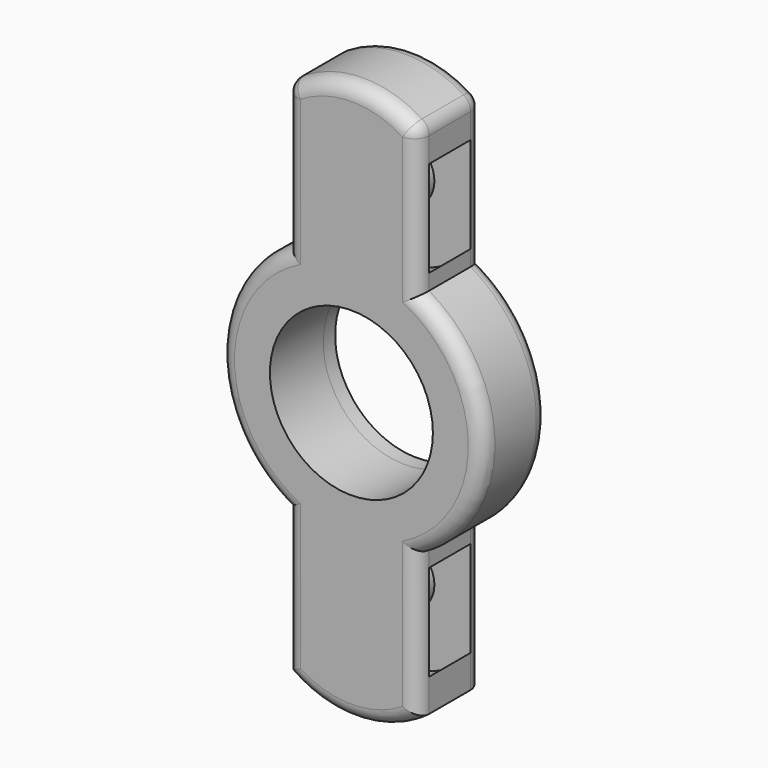
from build123d import *

# Parameters (mm, degrees)
F1_R          = 11
F1_R_2        = 4
F2_DEPTH      = 7
F0_R          = 11
F3_DEPTH      = 9
F3_DEPTH_BACK = 2
F4_R          = 2


with BuildPart() as f2:
    # F1 (on Front) → F2 (new body)
    with BuildSketch(Plane.XZ):
        with Locations((0, 24)):
            Circle(F1_R)
        with Locations((0, 24)):
            Circle(F1_R_2, mode=Mode.SUBTRACT)
        with Locations((0, -24)):
            Circle(F1_R)
        with Locations((0, -24)):
            Circle(F1_R_2, mode=Mode.SUBTRACT)
    extrude(amount=F2_DEPTH)


with BuildPart() as f3:
    # F0 (on Front) → F3 (new body, two sides)
    with BuildSketch(Plane.XZ) as f3_sk:
        with BuildLine():
            Line((-8.89, 34.897932), (-8.89, 15.397932))
            ThreePointArc((-8.89, 15.397932), (-17.78, 0), (-8.89, -15.397932))
            Line((-8.89, -15.397932), (-8.89, -34.897932))
            ThreePointArc((-8.89, -34.897932), (0, -37.816214), (8.89, -34.897932))
            Line((8.89, -34.897932), (8.89, -15.397932))
            ThreePointArc((8.89, -15.397932), (17.78, 0), (8.89, 15.397932))
            Line((8.89, 15.397932), (8.89, 34.897932))
            ThreePointArc((8.89, 34.897932), (0, 37.816214), (-8.89, 34.897932))
        make_face()
        Circle(F0_R, mode=Mode.SUBTRACT)
    extrude(amount=F3_DEPTH)
    extrude(f3_sk.sketch, amount=-F3_DEPTH_BACK)

    # F4
    f4_edges = [f3.edges().sort_by_distance(p)[0] for p in [
        (-8.89, -9, 25.147932),
        (-17.78, -9, 0),
        (8.89, -9, 25.147932),
        (17.78, -9, 0),
        (0, -9, 37.816214),
        (0, -9, -37.816214),
        (8.89, -9, -25.147932),
        (-8.89, -9, -25.147932),
        (-8.89, 2, 25.147932),
        (0, 2, 37.816214),
        (-17.78, 2, 0),
        (-8.89, 2, -25.147932),
        (0, 2, -37.816214),
        (8.89, 2, 25.147932),
        (17.78, 2, 0),
        (8.89, 2, -25.147932),
        (-8.89, -3.5, 34.897932),
        (8.89, -3.5, 34.897932),
    ]]
    fillet(f4_edges, radius=F4_R)

    # F5: cut F2
    add(f2.part, mode=Mode.SUBTRACT)


solid = f3.part
